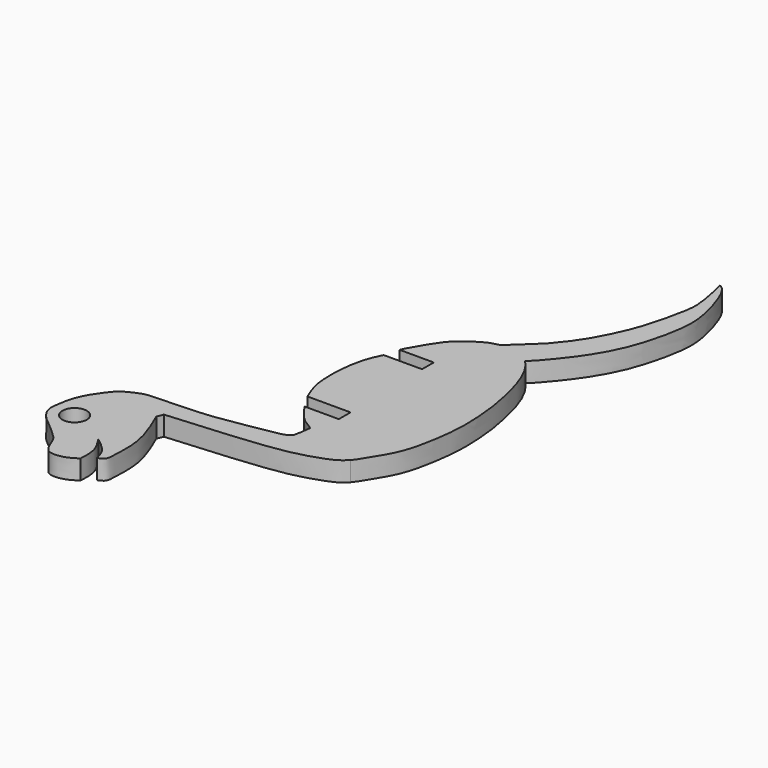
from build123d import *

# Parameters (mm, degrees)
F0_R     = 1.25
F1_DEPTH = 2


with BuildPart() as f1:
    # F0 (on Top) → F1 (new body)
    with BuildSketch(Plane.XY):
        with BuildLine():
            add(Edge.make_bspline(
                [(17.4112748355, 7.9979561269), (17.295364719, 8.4298953193), (17.0391189583, 9.3847954637), (16.0103300712, 10.1864156942), (15.4469031841, 10.6254313141)],
                knots=[0, 0, 0, 0, 0.452339645, 1, 1, 1, 1], degree=3))
            add(Edge.make_bspline(
                [(17.4112748355, 7.9979561269), (17.6496828612, 8.1027128239), (18.1585873224, 8.3263258932), (18.1418398229, 9.4175152071), (18.384649629, 12.4885799442), (17.2537100596, 15.1134822161), (16.6279226542, 16.5659300983)],
                knots=[0, 0, 0, 0, 0.149443141, 0.3190005072, 0.6231797726, 1, 1, 1, 1], degree=3))
            add(Edge.make_bspline(
                [(16.6279226542, 16.5659300983), (16.7144853622, 16.7823371788), (16.8010480702, 16.9987442593), (16.8876107782, 17.2151513398)],
                knots=[0, 0, 0, 0, 0.699232538, 0.699232538, 0.699232538, 0.699232538], degree=3))
            add(Edge.make_bspline(
                [(16.8876107782, 17.2151513398), (21.3023265742, 17.5571449848), (27.6063227493, 18.0023592359), (30.7665528362, 18.9271820572), (32.3830017296, 19.5261649855), (32.8804217279, 19.8303405195), (33.459842205, 20.3703027219)],
                knots=[0, 0, 0, 0, 0.4451948842, 0.6782375448, 0.8383869575, 1, 1, 1, 1], degree=3))
            add(Edge.make_bspline(
                [(33.459842205, 20.3703027219), (33.7093137205, 20.6614825875), (34.0892188382, 21.271041053), (35.0272180271, 22.7781346582), (35.8954976181, 24.4881029044), (36.4701360127, 27.0748916579), (36.8310664534, 29.8804600254), (36.7996370974, 32.1677432718), (36.5801827878, 34.8622822195), (36.0210860437, 37.386294464), (35.4525619319, 39.5345373153), (34.6251760039, 41.2983175513), (33.9927530332, 42.1218059393), (33.7117263963, 42.4222721522), (33.5868639222, 42.501578042)],
                knots=[0, 0, 0, 0, 0.0632983082, 0.1425146741, 0.2266026575, 0.3249881417, 0.4267295141, 0.5182559235, 0.6172324177, 0.7147844011, 0.8054957393, 0.889584135, 0.9523182777, 0.986891877, 0.986891877, 0.986891877, 0.986891877], degree=3))
            add(Edge.make_bspline(
                [(33.5868639222, 42.501578042), (33.6022495579, 42.4935067615), (33.7816927426, 42.4702207033), (37.1082908777, 46.2884496128), (39.070740602, 50.4382602626), (40.0583934927, 55.0957753958), (39.9062227335, 57.9504644074), (38.4804621914, 62.2298343043), (37.6427620649, 62.4343641102)],
                knots=[0.0272066322, 0.0272066322, 0.0272066322, 0.0272066322, 0.0427329101, 0.2360831885, 0.4474815091, 0.6380885356, 0.8048902196, 1, 1, 1, 1], degree=3))
            add(Edge.make_bspline(
                [(33.0876819789, 45.9498614073), (34.4748375777, 47.5577178539), (35.529928086, 49.2695958239), (37.2387111433, 52.7475404239), (38.378787144, 57.8052753654), (38.4379953286, 59.0827154432), (37.6427620649, 62.4343641102)],
                knots=[0, 0, 0, 0, 0.2476662101, 0.4758384424, 0.7254312122, 1, 1, 1, 1], degree=3))
            add(Edge.make_bspline(
                [(24.6004249035, 37.7407133906), (24.7516245724, 38.1740866599), (25.685442122, 39.761832692), (26.6868233696, 41.3200613825), (27.9943822561, 42.3788163055), (29.4393394907, 43.2573863082), (30.3018024072, 43.3464516211), (30.7398858743, 43.7286708475), (32.0678089376, 44.9860514083), (33.0876819789, 45.9498614073)],
                knots=[0, 0, 0, 0, 0.1668080966, 0.3247904488, 0.4705172869, 0.6167336293, 0.7158333315, 0.7950188821, 1, 1, 1, 1], degree=3))
            add(Edge.make_bspline(
                [(28.1004249035, 37.7407133906), (26.6020242362, 37.7407133906), (26.0988255708, 37.7407133906), (24.6004249035, 37.7407133906)],
                knots=[0, 0, 0, 0, 3.5, 3.5, 3.5, 3.5], degree=3))
            add(Edge.make_bspline(
                [(28.1004249035, 36.2407133906), (28.1004249035, 36.6419134964), (28.1004249035, 37.3395132849), (28.1004249035, 37.7407133906)],
                knots=[0, 0, 0, 0, 1.5, 1.5, 1.5, 1.5], degree=3))
            add(Edge.make_bspline(
                [(24.1763982922, 36.2407133906), (26.3092555106, 36.2407133906), (25.9675676851, 36.2407133906), (28.1004249035, 36.2407133906)],
                knots=[0, 0, 0, 0, 3.9240266113, 3.9240266113, 3.9240266113, 3.9240266113], degree=3))
            add(Edge.make_bspline(
                [(23.8907169551, 26.8328755498), (23.7486957389, 27.1578162937), (23.4374680939, 27.8701713932), (23.0665734335, 29.212295563), (22.9955856728, 30.801323296), (23.0372341188, 32.281622145), (23.2696450727, 33.8550622075), (23.6605956125, 35.2166443669), (24.058825152, 35.9912141104), (24.1763982922, 36.2407133906)],
                knots=[0, 0, 0, 0, 0.1281935771, 0.2715548192, 0.4247103428, 0.5732680738, 0.7262118646, 0.8732195152, 1, 1, 1, 1], degree=3))
            add(Edge.make_bspline(
                [(28.3019918799, 26.8328755498), (26.4082306226, 26.8328755498), (25.7844782124, 26.8328755498), (23.8907169551, 26.8328755498)],
                knots=[0, 0, 0, 0, 4.4112749249, 4.4112749249, 4.4112749249, 4.4112749249], degree=3))
            add(Edge.make_bspline(
                [(28.3019918799, 25.3328755498), (28.3019918799, 25.8485817661), (28.3019918799, 26.3171693335), (28.3019918799, 26.8328755498)],
                knots=[0, 0, 0, 0, 1.5, 1.5, 1.5, 1.5], degree=3))
            add(Edge.make_bspline(
                [(24.8019918799, 25.3328755498), (26.391994829, 25.3328755498), (26.7119889309, 25.3328755498), (28.3019918799, 25.3328755498)],
                knots=[0, 0, 0, 0, 3.5, 3.5, 3.5, 3.5], degree=3))
            add(Edge.make_bspline(
                [(27.4799726903, 22.6855948567), (27.3037290861, 22.857529781), (26.6508071966, 23.1849712349), (25.9502905246, 23.7825274811), (25.3919207608, 24.4761509665), (24.9976820261, 25.0333462292), (24.8019918799, 25.3328755498)],
                knots=[0, 0, 0, 0, 0.2483972513, 0.4975109753, 0.7378529192, 1, 1, 1, 1], degree=3))
            add(Edge.make_bspline(
                [(10.7783768326, 10.1455682889), (10.5526435812, 10.3216510353), (10.0758727162, 10.6882021112), (9.3199023272, 11.5179050275), (9.0154755774, 12.415585051), (9.1646827824, 13.4163128715), (9.367656677, 14.6752248615), (9.9224806753, 15.9544767597), (10.5475412626, 16.8518555412), (11.3380203212, 17.9831550164), (12.2697439685, 18.5366015983), (13.5593348197, 19.1027227036), (14.4546063903, 19.0622957436), (15.1268243285, 19.1182259496), (17.8209191118, 19.2270633939), (20.0319535852, 19.3039682368), (24.8706141914, 20.1710767644), (26.4372034051, 20.4295984808), (26.9943771164, 20.7087003279), (27.2221914486, 20.915436534), (27.2669526335, 21.4308651701), (27.3714686469, 21.5756967871), (27.4799726903, 22.6855948567)],
                knots=[0, 0, 0, 0, 0.0426242811, 0.0901847402, 0.1332873145, 0.1781105769, 0.2295313534, 0.2825232928, 0.3303827198, 0.3824465013, 0.4300456267, 0.4833848932, 0.5247155957, 0.5617854244, 0.6333305425, 0.7055528618, 0.8054063253, 0.862416998, 0.895562377, 0.9195883933, 0.9457911414, 1, 1, 1, 1], degree=3))
            add(Edge.make_bspline(
                [(16.421334818, 7.1036480367), (16.1282284295, 6.9233415888), (15.5593097533, 6.5733672803), (14.7065573337, 6.3445395806), (13.7891630078, 6.3538885256), (13.3389673665, 6.8086506327), (13.072696217, 7.3130410826), (12.8020233561, 8.0057474991), (12.549187489, 8.637021886), (11.4801005597, 9.547772697), (10.7783768326, 10.1455682889)],
                knots=[0, 0, 0, 0, 0.1324276066, 0.2570416121, 0.3796734638, 0.480539568, 0.580652778, 0.6917626292, 0.7976801785, 1, 1, 1, 1], degree=3))
            add(Edge.make_bspline(
                [(15.4469031841, 10.6254313141), (15.8039875923, 10.0854916349), (16.5152481735, 9.010009757), (16.4525538206, 7.737367397), (16.421334818, 7.1036480367)],
                knots=[0, 0, 0, 0, 0.5020444233, 1, 1, 1, 1], degree=3))
        make_face()
        with Locations((11.3818319514, 12.6641467214)):
            Circle(F0_R, mode=Mode.SUBTRACT)
        with BuildLine():
            add(Edge.make_bspline(
                [(33.4322936833, 42.5794199109), (33.5059857607, 42.5559239397), (33.5424046256, 42.5302783951), (33.5676644586, 42.5134339984)],
                knots=[0, 0, 0, 0, 0.0212466282, 0.0212466282, 0.0212466282, 0.0212466282], degree=3))
            add(Edge.make_bspline(
                [(33.5676644586, 42.5134339984), (33.5257977766, 42.538555991), (33.4810562918, 42.5606648109), (33.4322936833, 42.5794199109)],
                knots=[0.9886457325, 0.9886457325, 0.9886457325, 0.9886457325, 1, 1, 1, 1], degree=3))
        make_face(mode=Mode.SUBTRACT)
        with BuildLine():
            add(Edge.make_bspline(
                [(33.5868639222, 42.501578042), (33.580529877, 42.5056010848), (33.5741314641, 42.5095534887), (33.5676644586, 42.5134339984)],
                knots=[0.986891877, 0.986891877, 0.986891877, 0.986891877, 0.9886457325, 0.9886457325, 0.9886457325, 0.9886457325], degree=3))
            add(Edge.make_bspline(
                [(33.5676644586, 42.5134339984), (33.5747502278, 42.5087088876), (33.5809579059, 42.5046763289), (33.5868639222, 42.501578042)],
                knots=[0.0212466282, 0.0212466282, 0.0212466282, 0.0212466282, 0.0272066322, 0.0272066322, 0.0272066322, 0.0272066322], degree=3))
        make_face(mode=Mode.SUBTRACT)
        with BuildLine():
            add(Edge.make_bspline(
                [(33.5676644586, 42.5134339984), (33.5747502278, 42.5087088876), (33.5809579059, 42.5046763289), (33.5868639222, 42.501578042)],
                knots=[0.0212466282, 0.0212466282, 0.0212466282, 0.0212466282, 0.0272066322, 0.0272066322, 0.0272066322, 0.0272066322], degree=3))
            add(Edge.make_bspline(
                [(33.5868639222, 42.501578042), (33.580529877, 42.5056010848), (33.5741314641, 42.5095534887), (33.5676644586, 42.5134339984)],
                knots=[0.986891877, 0.986891877, 0.986891877, 0.986891877, 0.9886457325, 0.9886457325, 0.9886457325, 0.9886457325], degree=3))
        make_face()
    extrude(amount=F1_DEPTH)


solid = f1.part
